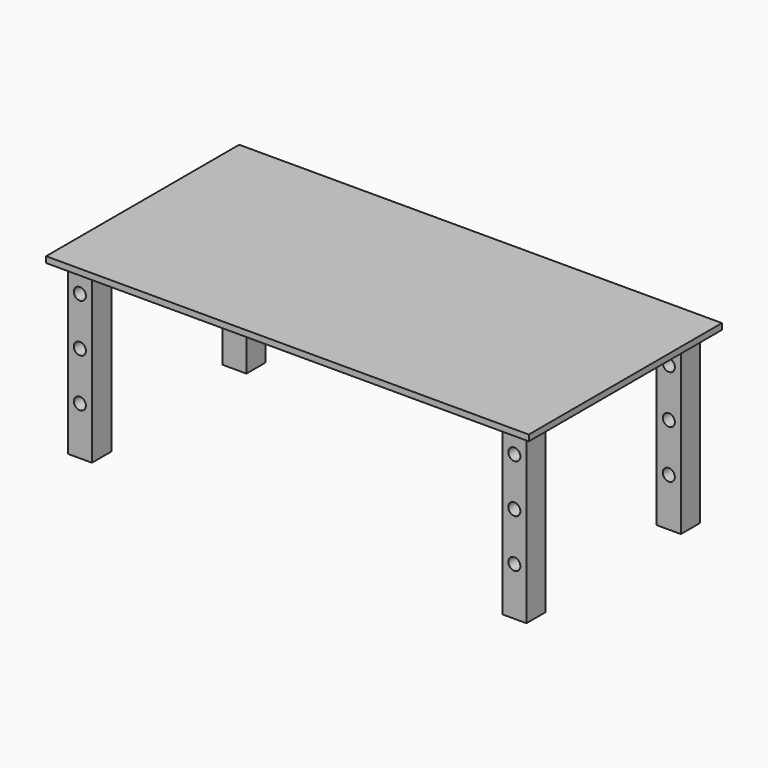
from build123d import *

# Parameters (mm, degrees)
F0_W     = 2000
F0_H     = 1000
F0_W_2   = 100
F0_H_2   = 100
F2_DEPTH = 25
F3_DEPTH = 700
F4_D     = 50
F4_DEPTH = 533.1841849229
F5_D     = 50


with BuildPart() as f2:
    # F0 (on Top) → F2 (new body)
    with BuildSketch(Plane.XY):
        with Locations((-7.0481244475, 33.1831849229)):
            Rectangle(F0_W, F0_H)
        with Locations((-907.0481244475, -366.8168150771)):
            Rectangle(F0_W_2, F0_H_2, mode=Mode.SUBTRACT)
        with Locations((892.9518755525, -366.8168150771)):
            Rectangle(F0_W_2, F0_H_2, mode=Mode.SUBTRACT)
        with Locations((-907.0481244475, 433.1831849229)):
            Rectangle(F0_W_2, F0_H_2, mode=Mode.SUBTRACT)
        with Locations((892.9518755525, 433.1831849229)):
            Rectangle(F0_W_2, F0_H_2, mode=Mode.SUBTRACT)
        with Locations((-907.0481244475, -366.8168150771)):
            Rectangle(F0_W_2, F0_H_2)
        with Locations((-907.0481244475, 433.1831849229)):
            Rectangle(F0_W_2, F0_H_2)
        with Locations((892.9518755525, 433.1831849229)):
            Rectangle(F0_W_2, F0_H_2)
        with Locations((892.9518755525, -366.8168150771)):
            Rectangle(F0_W_2, F0_H_2)
    extrude(amount=F2_DEPTH)

    # F0 (on Top) → F3 (join)
    with BuildSketch(Plane.XY):
        with Locations((-907.0481244475, -366.8168150771)):
            Rectangle(F0_W_2, F0_H_2)
        with Locations((-907.0481244475, 433.1831849229)):
            Rectangle(F0_W_2, F0_H_2)
        with Locations((892.9518755525, 433.1831849229)):
            Rectangle(F0_W_2, F0_H_2)
        with Locations((892.9518755525, -366.8168150771)):
            Rectangle(F0_W_2, F0_H_2)
    extrude(amount=-F3_DEPTH)

    # F4 (through all, one way)
    with BuildSketch(Plane.XZ):
        with Locations((-907.0481244475, -100), (-907.0481244475, -300), (-907.0481244475, -500), (892.9518755525, -500), (892.9518755525, -300), (892.9518755525, -100)):
            Circle(F4_D / 2)
    extrude(amount=-F4_DEPTH, mode=Mode.SUBTRACT)

    # F5 (through all)
    with Locations(Plane(origin=(0, 0, 0), x_dir=(1, 0, 0), z_dir=(0, 1, 0))):
        with Locations((-907.0481244475, 100), (-907.0481244475, 300), (-907.0481244475, 500), (892.9518755525, 100), (892.9518755525, 300), (892.9518755525, 500)):
            Hole(F5_D / 2)


solid = f2.part
